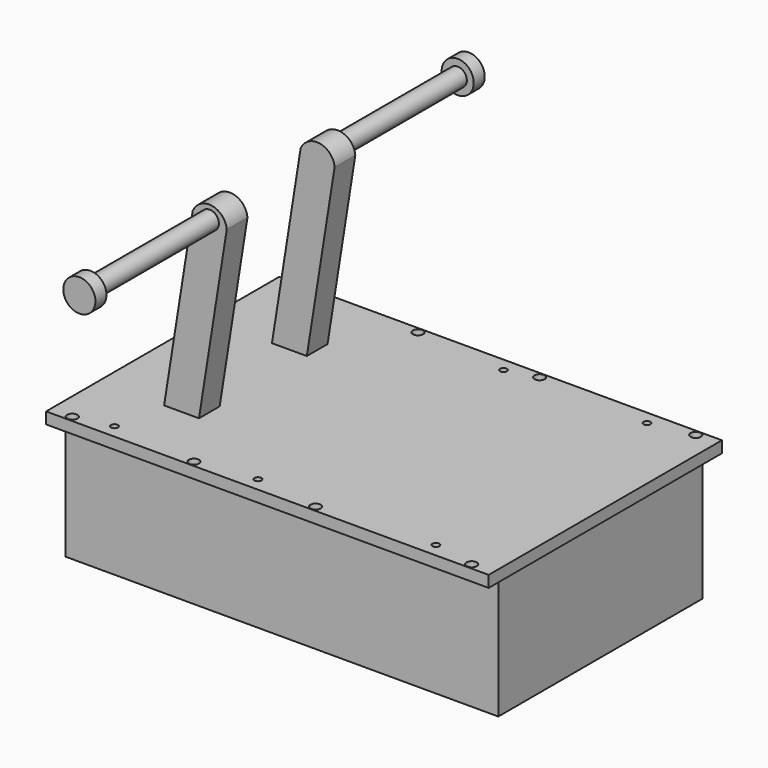
from build123d import *

# Parameters (mm, degrees)
F0_W           = 385.6
F0_H           = 254
F1_DEPTH       = 10
F2_W           = 377
F2_H           = 222.3
F3_DEPTH       = 106.5
F5_D           = 6
F5_DEPTH       = 10
F5_TIP         = 1.8025818571
F6_D           = 5.1
F6_DEPTH       = 10
F6_CBORE_D     = 9
F6_CBORE_DEPTH = 5
F6_TIP         = 1.5321945785
F9_DEPTH       = 22.55
F10_R          = 8
F11_DEPTH      = 164.55
F12_R          = 14
F13_DEPTH      = 12


with BuildPart() as f1:
    # F0 (on Top) → F1 (new body)
    with BuildSketch(Plane.XY):
        Rectangle(F0_W, F0_H)
    extrude(amount=F1_DEPTH)

    # F2 (on face) → F3 (join)
    with BuildSketch(Plane(origin=(0, 0, 0), x_dir=(1, 0, 0), z_dir=(0, 0, -1))):
        Rectangle(F2_W, F2_H)
    extrude(amount=F3_DEPTH)

    # F5
    with Locations(Plane.XY.offset(10)):
        with Locations((-142.8, 115), (12.2, 115), (137.2, 115), (137.2, -115), (-17.8, -115), (-142.8, -115)):
            Hole(F5_D / 2, depth=F5_DEPTH)
            with Locations((0, 0, -(F5_DEPTH + F5_TIP / 2))):  # 118° drill point
                Cone(0, F5_D / 2, F5_TIP, mode=Mode.SUBTRACT)

    # F6
    with Locations(Plane.XY.offset(10)):
        with Locations((-174, 122), (-68, 122), (38, 122), (174, 122), (174, -122), (38, -122), (-68, -122), (-174, -122)):
            CounterBoreHole(F6_D / 2, F6_CBORE_D / 2, F6_CBORE_DEPTH, depth=F6_DEPTH)
            with Locations((0, 0, -(F6_DEPTH + F6_TIP / 2))):  # 118° drill point
                Cone(0, F6_D / 2, F6_TIP, mode=Mode.SUBTRACT)



with BuildPart() as f9:
    # F8 (on offset) → F9 (new body)
    with BuildSketch(Plane.XZ.offset(47.45)):
        with BuildLine():
            ThreePointArc((-81.0016359628, 162.7334830244), (-93.9756988655, 176.7052720437), (-110.6322861807, 167.4265169756))
            Line((-110.6322861807, 167.4265169756), (-139.90404485, -17.3880936599))
            Line((-139.90404485, -17.3880936599), (-110.2733946321, -22.0811276111))
            Line((-110.2733946321, -22.0811276111), (-81.0016359628, 162.7334830244))
        make_face()
    extrude(amount=F9_DEPTH)

    # F10 (on face) → F11 (join)
    with BuildSketch(Plane.XZ.offset(47.45)):
        with Locations((-95.8169610718, 165.08)):
            Circle(F10_R)
    extrude(amount=F11_DEPTH)

    # F12 (on face) → F13 (join)
    with BuildSketch(Plane.XZ.offset(212)):
        with Locations((-95.8169610718, 165.08)):
            Circle(F12_R)
    extrude(amount=-F13_DEPTH)


with BuildPart() as f1_1:
    add(f1.part)

    add(f9.part)  # F14 merges F9
    # F14: F9 across plane
    add(f9.part.mirror(Plane.XZ))


solid = f1_1.part
